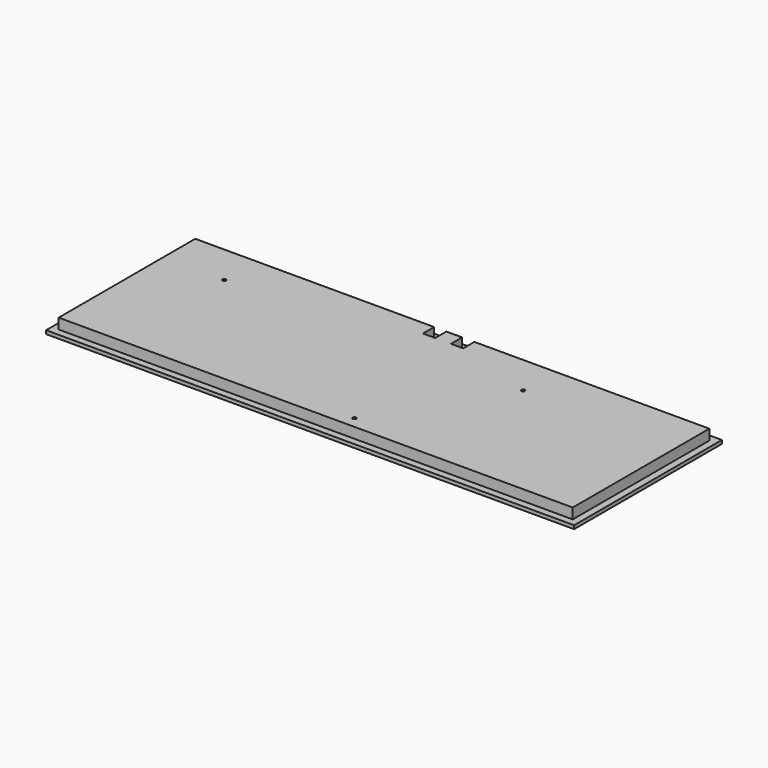
from build123d import *

# Parameters (mm, degrees)
F0_W     = 479.028125
F0_H     = 167.580469
F1_DEPTH = 12.7
F2_W     = 479.028125
F2_H     = 167.580469
F2_W_2   = 466.328125
F2_H_2   = 154.880469
F3_DEPTH = 9.525
F4_W     = 11.1125
F4_H     = 9.525
F5_DEPTH = 19.05
F6_R     = 1.5875
F7_DEPTH = 7.9375


with BuildPart() as f1:
    # F0 (on Top) → F1 (new body)
    with BuildSketch(Plane.XY):
        with Locations((239.514062, 83.790234)):
            Rectangle(F0_W, F0_H)
    extrude(amount=F1_DEPTH)

    # F2 (on face) → F3 (cut)
    with BuildSketch(Plane.XY.offset(12.7)):
        with Locations((239.514062, 83.790234)):
            Rectangle(F2_W, F2_H)
        with Locations((239.514062, 83.790234)):
            Rectangle(F2_W_2, F2_H_2, mode=Mode.SUBTRACT)
    extrude(amount=-F3_DEPTH, mode=Mode.SUBTRACT)

    # F4 (on face) → F5 (cut)
    with BuildSketch(Plane(origin=(0, 167.580469, 0), x_dir=(-1, 0, 0), z_dir=(0, 1, 0))):
        with Locations((-228.6, 7.9375)):
            Rectangle(F4_W, F4_H)
        with Locations((-254, 7.9375)):
            Rectangle(F4_W, F4_H)
    extrude(amount=-F5_DEPTH, mode=Mode.SUBTRACT)

    # F6 (on face) → F7 (cut)
    with BuildSketch(Plane.XY.offset(12.7)):
        with Locations((61.9125, 124.717969)):
            Circle(F6_R)
        with Locations((332.978125, 124.717969)):
            Circle(F6_R)
        with Locations((266.303125, 16.767969)):
            Circle(F6_R)
    extrude(amount=-F7_DEPTH, mode=Mode.SUBTRACT)


solid = f1.part
